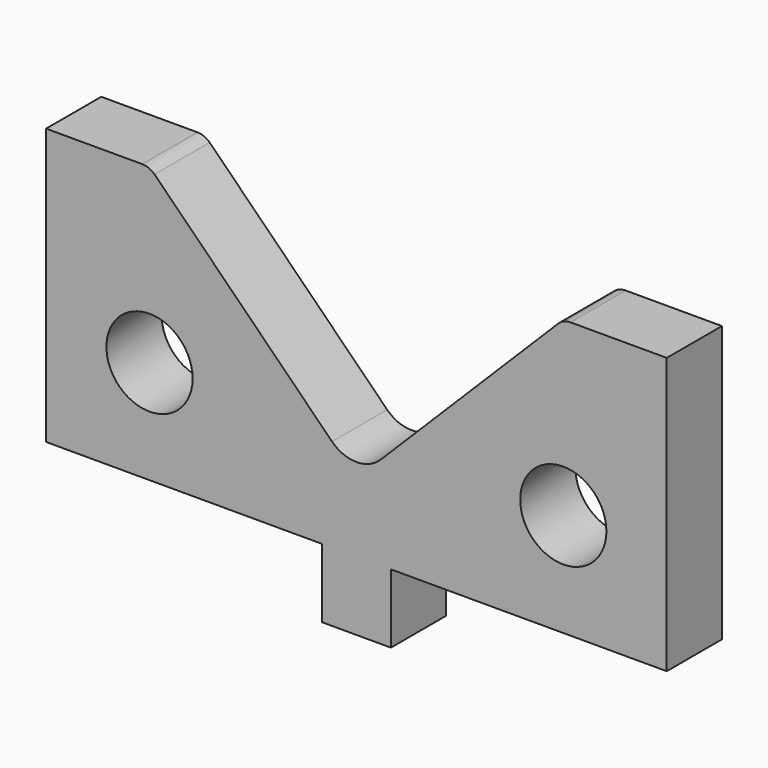
from build123d import *

# Parameters (mm, degrees)
F1_DEPTH = 12.7
F2_R     = 6.35
F3_R     = 3.175
F4_W     = 12.7
F4_H     = 12.7
F5_DEPTH = 12.7
F6_R     = 7.9375
F7_DEPTH = 25.4


with BuildPart() as f1:
    # F0 (on Front) → F1 (new body)
    with BuildSketch(Plane.XZ):
        Polygon((0, 50.8), (0, 0), (114.3, 0), (114.3, 50.8), (95.25, 50.8), (57.15, 12.7), (19.05, 50.8), align=None)
    extrude(amount=F1_DEPTH)

    # F2
    f2_edges = [f1.edges().sort_by_distance(p)[0] for p in [
        (57.15, -6.35, 12.7),
    ]]
    fillet(f2_edges, radius=F2_R)

    # F3
    f3_edges = [f1.edges().sort_by_distance(p)[0] for p in [
        (19.05, -6.35, 50.8),
        (95.25, -6.35, 50.8),
    ]]
    fillet(f3_edges, radius=F3_R)

    # F4 (on face) → F5 (join)
    with BuildSketch(Plane.XZ.offset(12.7)):
        with Locations((57.15, -6.35)):
            Rectangle(F4_W, F4_H)
    extrude(amount=-F5_DEPTH)

    # F6 (on face) → F7 (cut)
    with BuildSketch(Plane.XZ.offset(12.7)):
        with Locations((19.05, 19.05)):
            Circle(F6_R)
        with Locations((95.25, 19.05)):
            Circle(F6_R)
    extrude(amount=-F7_DEPTH, mode=Mode.SUBTRACT)


solid = f1.part
